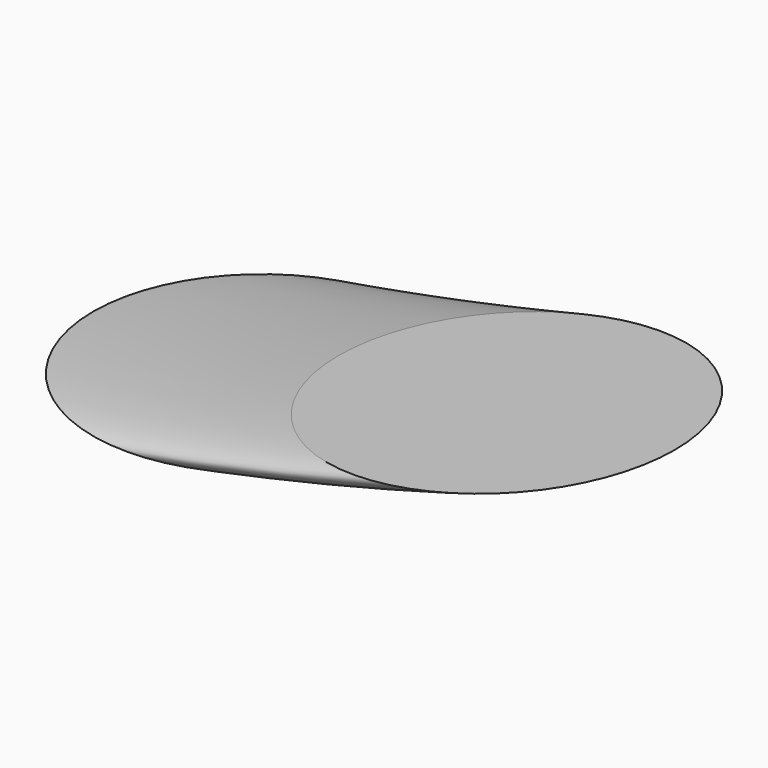
from build123d import *

# Parameters (mm, degrees)
F0_R = 75.463389


with BuildPart() as f2:
    # F2: sweep along a path in F1
    with BuildLine(Plane.XZ) as f2_path:
        ThreePointArc((0, 0), (55.048068, 11.062491), (109.624311, 24.257267))
    # F0 (on Top) → F2 (sweep)
    with BuildSketch(Plane.XY):
        Circle(F0_R)
    sweep(path=f2_path.line)


solid = f2.part
